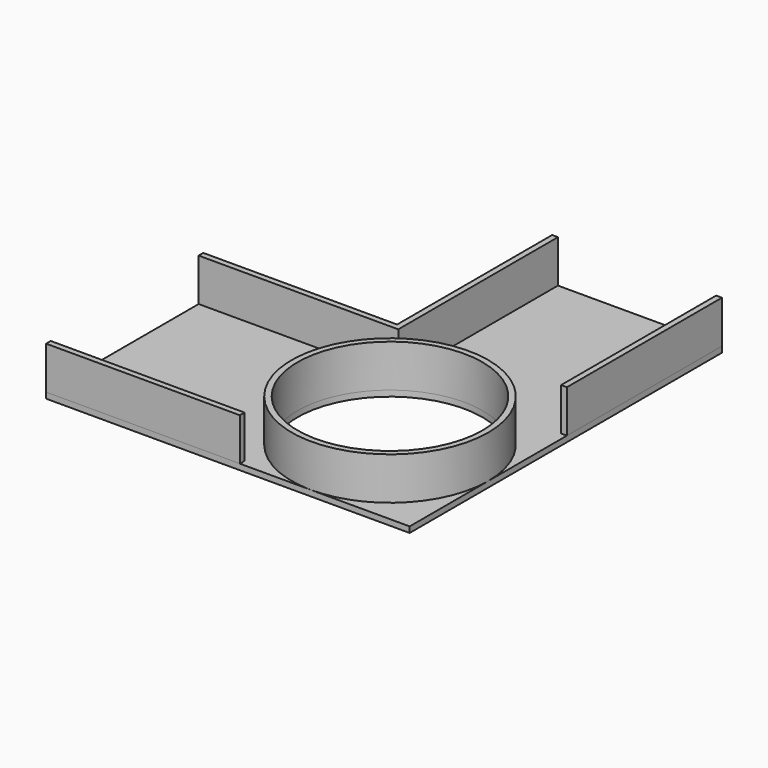
from build123d import *

# Parameters (mm, degrees)
F0_R     = 47.7
F1_DEPTH = 25
F0_W     = 3
F0_H     = 100
F2_DEPTH = 3


with BuildPart() as f1:
    # F0 (on Top) → F1 (new body)
    with BuildSketch(Plane.XY):
        with BuildLine():
            ThreePointArc((-4.79e-08, -50.7), (35.8503137892, -35.8503138231), (50.7, 0))
            ThreePointArc((50.7, 0), (-35.8503137892, 35.8503138231), (-4.79e-08, -50.7))
        make_face()
        Circle(F0_R, mode=Mode.SUBTRACT)
    extrude(amount=F1_DEPTH)


with BuildPart() as f1b:
    # F0 (on Top) → F1, piece 2 (new body)
    with BuildSketch(Plane.XY):
        Polygon((-33.9021371007, 47.7000079251), (-33.9021371007, 150.7), (-36.9021371007, 150.7), (-36.9021371007, 50.7), (-136.9021371007, 50.7), (-136.9021371007, 47.7000079251), (-36.8952414091, 47.7000079251), align=None)
    extrude(amount=F1_DEPTH)


with BuildPart() as f1c:
    # F0 (on Top) → F1, piece 3 (new body)
    with BuildSketch(Plane.XY):
        with Locations((49.2, 100.7)):
            Rectangle(F0_W, F0_H)
    extrude(amount=F1_DEPTH)


with BuildPart() as f1d:
    # F0 (on Top) → F1, piece 4 (new body)
    with BuildSketch(Plane.XY):
        Polygon((-136.9021371007, -50.7), (-36.9021371007, -50.7), (-36.8952414091, -47.7000079251), (-136.9021371007, -47.7000079251), align=None)
    extrude(amount=F1_DEPTH)


with BuildPart() as f2:
    # F0 (on Top) → F2 (new body)
    with BuildSketch(Plane.XY):
        with BuildLine():
            ThreePointArc((-4.79e-08, -50.7), (35.8503137892, -35.8503138231), (50.7, 0))
            ThreePointArc((50.7, 0), (-35.8503137892, 35.8503138231), (-4.79e-08, -50.7))
        make_face()
        Circle(F0_R, mode=Mode.SUBTRACT)
        with BuildLine():
            Line((50.7, -50.7), (50.7, 0))
            ThreePointArc((50.7, 0), (35.8503137892, -35.8503138231), (-4.79e-08, -50.7))
            Line((-4.79e-08, -50.7), (50.7, -50.7))
        make_face()
        with BuildLine():
            ThreePointArc((-4.79e-08, -50.7), (-35.8503137892, 35.8503138231), (50.7, 0))
            Line((50.7, 0), (50.7, 50.7))
            Line((50.7, 50.7), (47.7, 50.7))
            Line((47.7, 50.7), (47.7, 150.7))
            Line((47.7, 150.7), (-33.9021371007, 150.7))
            Line((-33.9021371007, 150.7), (-33.9021371007, 47.7000079251))
            Line((-33.9021371007, 47.7000079251), (-36.8952414091, 47.7000079251))
            Line((-36.8952414091, 47.7000079251), (-136.9021371007, 47.7000079251))
            Line((-136.9021371007, 47.7000079251), (-136.9021371007, -47.7000079251))
            Line((-136.9021371007, -47.7000079251), (-36.8952414091, -47.7000079251))
            Line((-36.8952414091, -47.7000079251), (-36.9021371007, -50.7))
            Line((-36.9021371007, -50.7), (-4.79e-08, -50.7))
        make_face()
        with Locations((49.2, 100.7)):
            Rectangle(F0_W, F0_H)
        Polygon((-136.9021371007, -50.7), (-36.9021371007, -50.7), (-36.8952414091, -47.7000079251), (-136.9021371007, -47.7000079251), align=None)
        Polygon((-33.9021371007, 47.7000079251), (-33.9021371007, 150.7), (-36.9021371007, 150.7), (-36.9021371007, 50.7), (-136.9021371007, 50.7), (-136.9021371007, 47.7000079251), (-36.8952414091, 47.7000079251), align=None)
    extrude(amount=F2_DEPTH)


solid = Compound([f1.part, f1b.part, f1c.part, f1d.part, f2.part])
